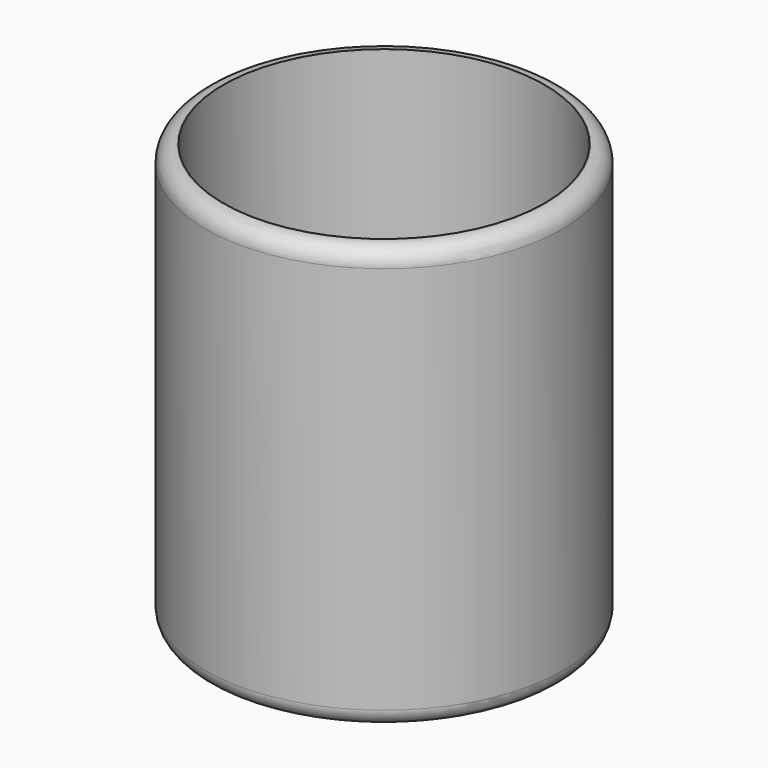
from build123d import *

# Parameters (mm, degrees)
F0_R     = 53.6575
F1_DEPTH = 127
F2_R     = 48.26
F3_DEPTH = 118.11
F4_R     = 5.08
F5_R     = 5.08


with BuildPart() as f1:
    # F0 (on Top) → F1 (new body)
    with BuildSketch(Plane.XY):
        Circle(F0_R)
    extrude(amount=F1_DEPTH)

    # F2 (on face) → F3 (cut)
    with BuildSketch(Plane.XY.offset(127)):
        Circle(F2_R)
    extrude(amount=-F3_DEPTH, mode=Mode.SUBTRACT)

    # F4
    f4_edges = [f1.edges().sort_by_distance(p)[0] for p in [
        (-53.6575, 0, 127),
    ]]
    fillet(f4_edges, radius=F4_R)

    # F5
    f5_edges = [f1.edges().sort_by_distance(p)[0] for p in [
        (-53.6575, 0, 0),
    ]]
    fillet(f5_edges, radius=F5_R)


solid = f1.part
